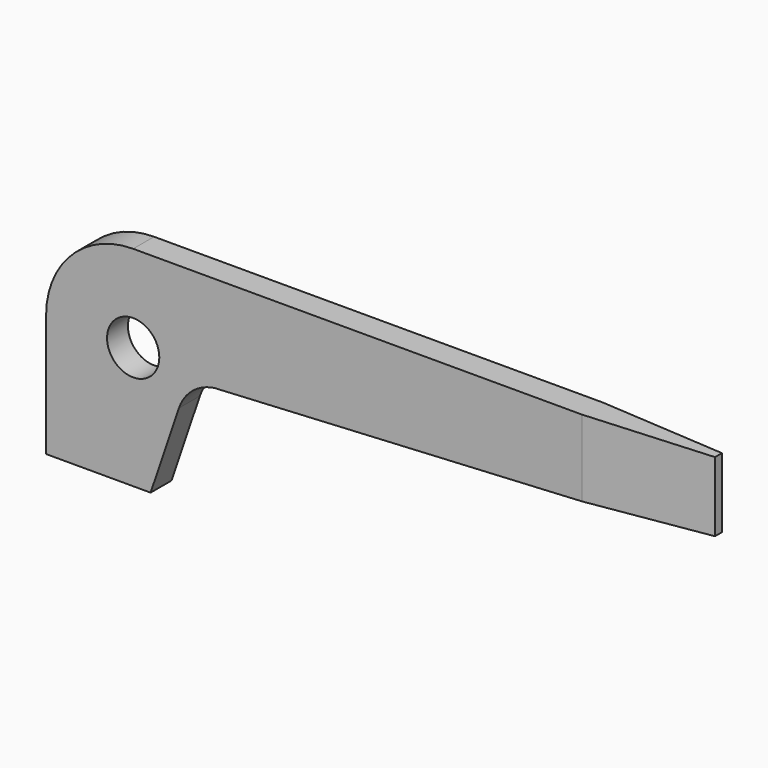
from build123d import *

# Parameters (mm, degrees)
F1_DEPTH = 2.38125
F2_R     = 2.38125
F3_DEPTH = 25.4
F5_DEPTH = 25.4


with BuildPart() as f1:
    # F0 (on Front) → F1 (new body)
    with BuildSketch(Plane.XZ):
        with BuildLine():
            Line((60.325, 19.05), (7.9375, 19.05))
            ThreePointArc((7.9375, 19.05), (2.32484, 16.72516), (0, 11.1125))
            Line((0, 11.1125), (0, 0))
            Line((0, 0), (9.525, 0))
            Line((9.525, 0), (12.110345, 7.626242))
            ThreePointArc((12.110345, 7.626242), (13.602572, 9.611517), (15.981838, 10.323664))
            Line((15.981838, 10.323664), (60.325, 12.7))
            Line((60.325, 12.7), (60.325, 19.05))
        make_face()
    extrude(amount=F1_DEPTH)

    # F2 (on face) → F3 (cut)
    with BuildSketch(Plane.XZ.offset(2.38125)):
        with Locations((7.9375, 11.1125)):
            Circle(F2_R)
    extrude(amount=-F3_DEPTH, mode=Mode.SUBTRACT)

    # F4 (on face) → F5 (cut)
    with BuildSketch(Plane.XY.offset(19.05)):
        Polygon((60.325, 0), (48.834524, 0), (60.325, -0.79375), align=None)
        Polygon((60.325, -2.38125), (60.325, -1.5875), (48.834524, -2.38125), align=None)
    extrude(amount=-F5_DEPTH, mode=Mode.SUBTRACT)


solid = f1.part
